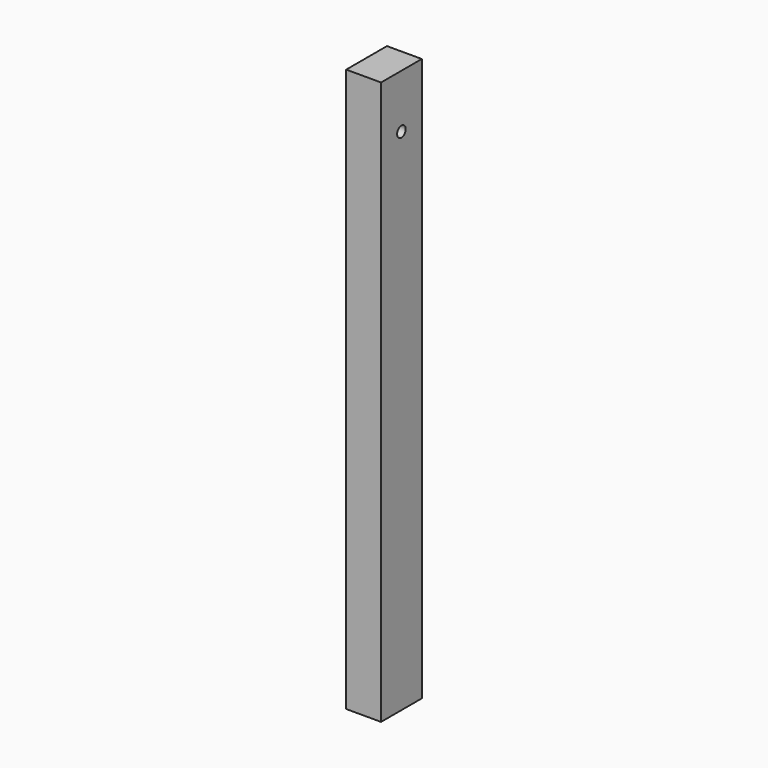
from build123d import *

# Parameters (mm, degrees)
F1_DEPTH = 2100
F3_D     = 40


with BuildPart() as f1:
    # F0 (on Top) → F1 (new body)
    with BuildSketch(Plane.XY):
        Polygon((-34.255523, 181.653569), (-65, 181.653569), (-65, -8.346431), (65, -8.346431), (65, 181.653569), (34.255523, 181.653569), align=None)
    extrude(amount=F1_DEPTH)

    # F3 (through all)
    with Locations(Plane.YZ.offset(65)):
        with Locations((86.653569, 1900)):
            Hole(F3_D / 2)


solid = f1.part
